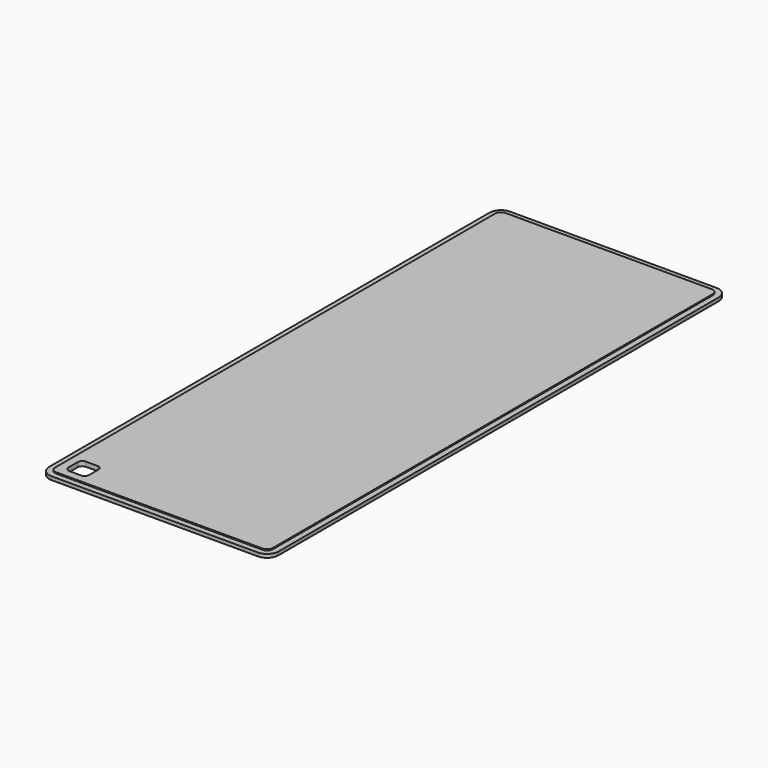
from build123d import *

# Parameters (mm, degrees)
PAD004_DEPTH    = 4
POCKET003_DEPTH = 1
POCKET006_DEPTH = 4


with BuildPart() as part:
    # Sketch010 → Pad004 (new body)
    with BuildSketch(Plane.XY):
        with BuildLine():
            Line((-100, 240), (-100, -240))
            ThreePointArc((-100, -240), (-97.0710678119, -247.0710678119), (-90, -250))
            Line((-90, -250), (90, -250))
            ThreePointArc((90, -250), (97.0710678119, -247.0710678119), (100, -240))
            Line((100, -240), (100, 240))
            ThreePointArc((100, 240), (97.0710678119, 247.0710678119), (90, 250))
            Line((90, 250), (-90, 250))
            ThreePointArc((-90, 250), (-97.0710678119, 247.0710678119), (-100, 240))
        make_face()
    extrude(amount=-PAD004_DEPTH)

    # Sketch011 (on Face9 of Pad004) → Pocket003 (cut)
    with BuildSketch(Plane.XY):
        with BuildLine():
            Line((-100, 240), (-100, -240))
            ThreePointArc((-100, -240), (-97.0710678119, -247.0710678119), (-90, -250))
            Line((-90, -250), (90, -250))
            ThreePointArc((90, -250), (97.0710678119, -247.0710678119), (100, -240))
            Line((100, -240), (100, 240))
            ThreePointArc((100, 240), (97.0710678119, 247.0710678119), (90, 250))
            Line((90, 250), (-90, 250))
            ThreePointArc((-90, 250), (-97.0710678119, 247.0710678119), (-100, 240))
        make_face()
        with BuildLine():
            Line((-94.95, 239.95), (-94.95, -239.95))
            ThreePointArc((-94.95, -239.95), (-93.4855339059, -243.4855339059), (-89.95, -244.95))
            Line((-89.95, -244.95), (89.95, -244.95))
            ThreePointArc((89.95, -244.95), (93.4855339059, -243.4855339059), (94.95, -239.95))
            Line((94.95, -239.95), (94.95, 239.95))
            ThreePointArc((94.95, 239.95), (93.4855339059, 243.4855339059), (89.95, 244.95))
            Line((89.95, 244.95), (-89.95, 244.95))
            ThreePointArc((-89.95, 244.95), (-93.4855339059, 243.4855339059), (-94.95, 239.95))
        make_face(mode=Mode.SUBTRACT)
    extrude(amount=-POCKET003_DEPTH, mode=Mode.SUBTRACT)

    # Sketch014 (on Face4 of Pocket003) → Pocket006 (cut)
    with BuildSketch(Plane(origin=(0, 0, -4), x_dir=(1, 0, 0), z_dir=(0, 0, -1))):
        with BuildLine():
            Line((-88, 234), (-88, 224))
            ThreePointArc((-88, 224), (-86.8284271247, 221.1715728753), (-84, 220))
            Line((-84, 220), (-74, 220))
            ThreePointArc((-74, 220), (-71.1715728753, 221.1715728753), (-70, 224))
            Line((-70, 224), (-70, 234))
            ThreePointArc((-70, 234), (-71.1715728753, 236.8284271247), (-74, 238))
            Line((-74, 238), (-84, 238))
            ThreePointArc((-84, 238), (-86.8284271247, 236.8284271247), (-88, 234))
        make_face()
    extrude(amount=-POCKET006_DEPTH, mode=Mode.SUBTRACT)


with BuildPart() as part_1:
    # Body002 placement: moved
    add(part.part.moved(Location((0, 0, 1))))


solid = part_1.part
